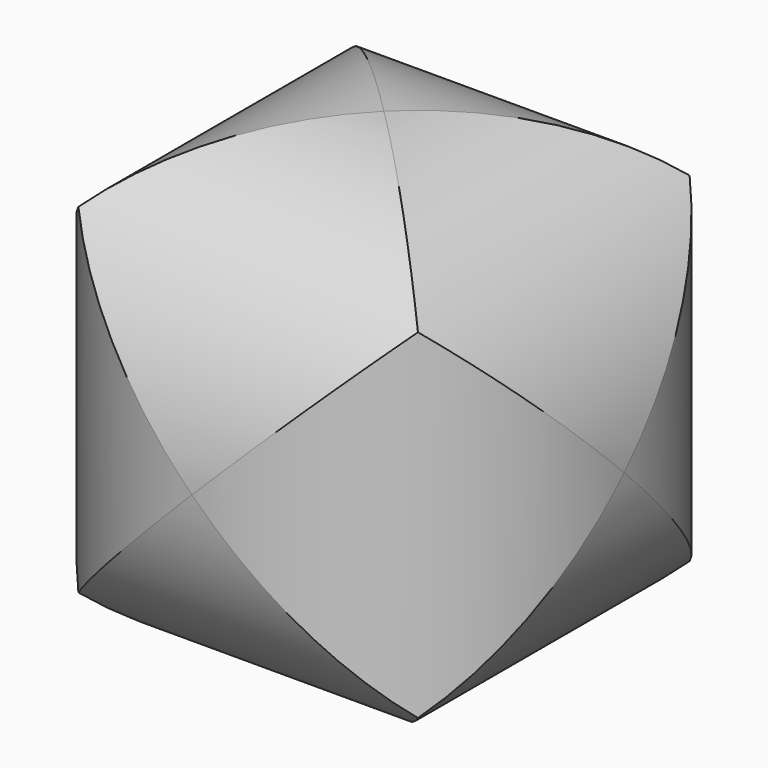
from build123d import *

# Parameters (mm, degrees)
F0_R     = 127
F1_DEPTH = 127
F2_R     = 127
F3_DEPTH = 127
F4_R     = 127
F5_DEPTH = 127


with BuildPart() as f1:
    # F0 (on Front) → F1 (new body, symmetric)
    with BuildSketch(Plane.XZ):
        Circle(F0_R)
    extrude(amount=F1_DEPTH, both=True)

    # F2 (on Right) → F3 (intersect, symmetric)
    with BuildSketch(Plane.YZ):
        Circle(F2_R)
    extrude(amount=F3_DEPTH, both=True, mode=Mode.INTERSECT)

    # F4 (on Top) → F5 (intersect, symmetric)
    with BuildSketch(Plane.XY):
        Circle(F4_R)
    extrude(amount=F5_DEPTH, both=True, mode=Mode.INTERSECT)


solid = f1.part
